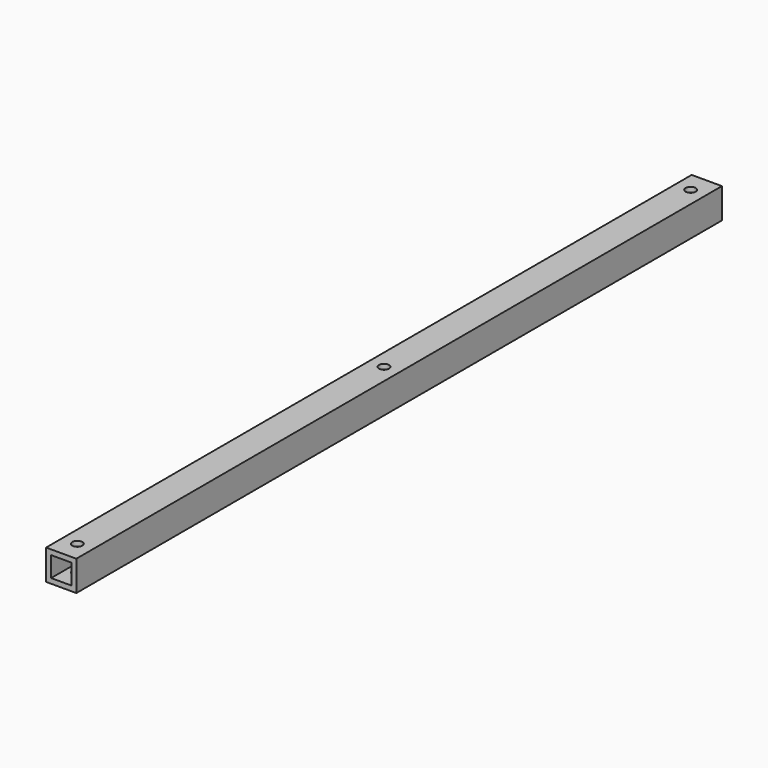
from build123d import *

# Parameters (mm, degrees)
F0_W     = 19.05
F0_H     = 19.05
F0_W_2   = 12.7
F0_H_2   = 12.7
F1_DEPTH = 508
F2_R     = 3.175
F3_DEPTH = 63.5


with BuildPart() as f1:
    # F0 (on Front) → F1 (new body)
    with BuildSketch(Plane.XZ):
        with Locations((-6.35, 6.35)):
            Rectangle(F0_W, F0_H)
        with Locations((-6.35, 6.35)):
            Rectangle(F0_W_2, F0_H_2, mode=Mode.SUBTRACT)
    extrude(amount=F1_DEPTH)

    # F2 (on Top) → F3 (cut, symmetric)
    with BuildSketch(Plane.XY):
        with Locations((-6.35, -12.7)):
            Circle(F2_R)
        with Locations((-6.35, -254)):
            Circle(F2_R)
        with Locations((-6.35, -495.3)):
            Circle(F2_R)
    extrude(amount=F3_DEPTH, both=True, mode=Mode.SUBTRACT)


solid = f1.part
